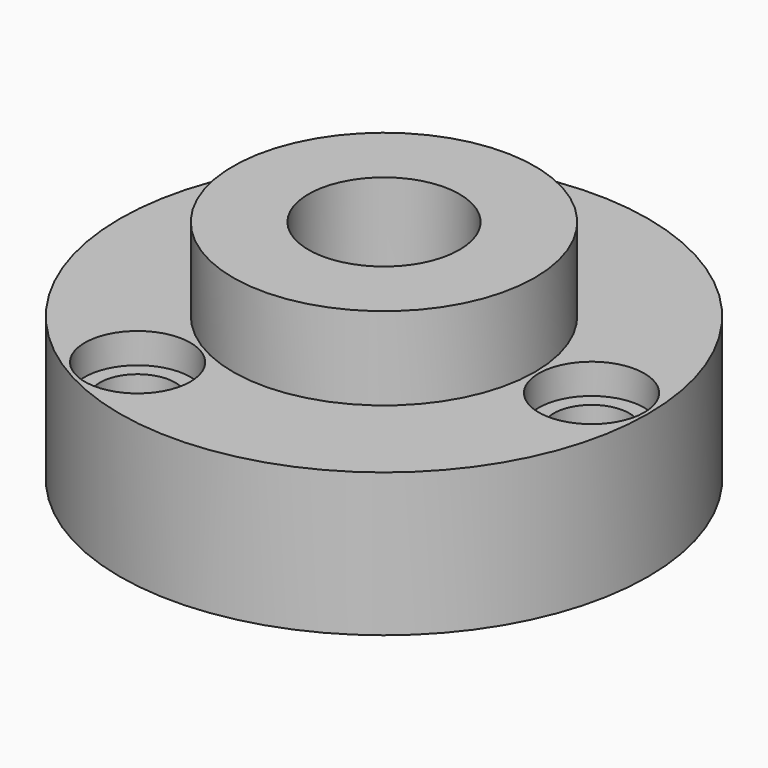
from build123d import *

# Parameters (mm, degrees)
F0_R     = 20
F0_R_2   = 10
F1_DEPTH = 15
F2_R     = 35
F2_R_2   = 5
F2_R_3   = 10
F3_DEPTH = 15
F4_R     = 35
F4_R_2   = 7
F4_R_3   = 20
F5_DEPTH = 4


with BuildPart() as f1:
    # F0 (on Top) → F1 (new body)
    with BuildSketch(Plane.XY):
        Circle(F0_R)
        Circle(F0_R_2, mode=Mode.SUBTRACT)
    extrude(amount=F1_DEPTH)

    # F2 (on face) → F3 (join)
    with BuildSketch(Plane(origin=(0, 0, 0), x_dir=(1, 0, 0), z_dir=(0, 0, -1))):
        Circle(F2_R)
        with Locations((-17.977587, -20.810006)):
            Circle(F2_R_2, mode=Mode.SUBTRACT)
        with Locations((-13.474644, 23.972567)):
            Circle(F2_R_2, mode=Mode.SUBTRACT)
        Circle(F2_R_3, mode=Mode.SUBTRACT)
        with Locations((27.5, 0)):
            Circle(F2_R_2, mode=Mode.SUBTRACT)
    extrude(amount=F3_DEPTH)

    # F4 (on face) → F5 (join)
    with BuildSketch(Plane.XY):
        Circle(F4_R)
        with Locations((-13.474644, -23.972567)):
            Circle(F4_R_2, mode=Mode.SUBTRACT)
        with Locations((-17.977587, 20.810006)):
            Circle(F4_R_2, mode=Mode.SUBTRACT)
        Circle(F4_R_3, mode=Mode.SUBTRACT)
        with Locations((27.5, 0)):
            Circle(F4_R_2, mode=Mode.SUBTRACT)
    extrude(amount=F5_DEPTH)


solid = f1.part
